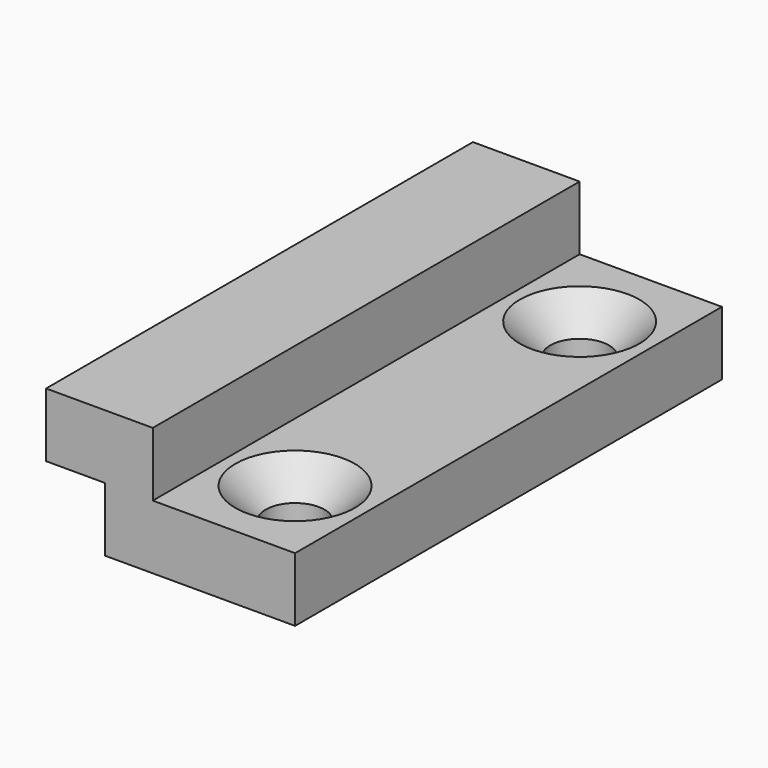
from build123d import *

# Parameters (mm, degrees)
F1_DEPTH       = 30
F3_D           = 3.3
F3_CSINK_D     = 6.72
F3_CSINK_ANGLE = 90


with BuildPart() as f1:
    # F0 (on Front) → F1 (new body)
    with BuildSketch(Plane.XZ):
        Polygon((-4.7134831967, 0), (5.9865168033, 0), (5.9865168033, 3.6), (-2.0134831967, 3.6), (-2.0134831967, 7.2), (-8.0134831967, 7.2), (-8.0134831967, 3.6), (-4.7134831967, 3.6), align=None)
    extrude(amount=F1_DEPTH)

    # F3 (through all)
    with Locations(Plane.XY.offset(3.6)):
        with Locations((1.9865168033, -5), (1.9865168033, -25)):
            CounterSinkHole(F3_D / 2, F3_CSINK_D / 2, counter_sink_angle=F3_CSINK_ANGLE)


solid = f1.part
